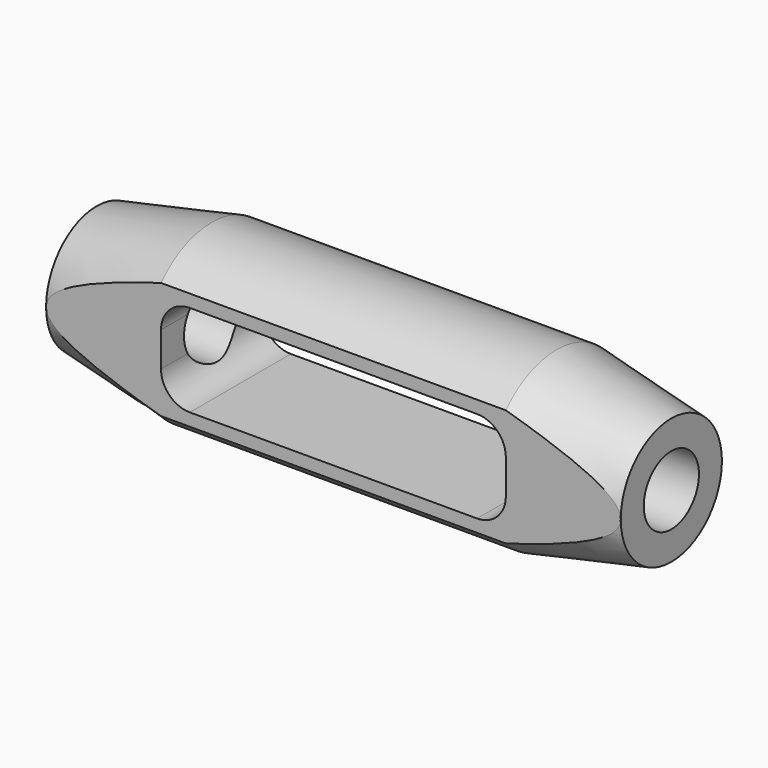
from build123d import *

# Parameters (mm, degrees)
SKETCH024_R      = 6
EXTRUDE011_DEPTH = 150
EXTRUDE010_DEPTH = 30
SKETCH022_W      = 15
SKETCH022_H      = 79.05159
SKETCH022_H_2    = 80
EXTRUDE009_DEPTH = 150


with BuildPart() as extrude011:
    # Sketch024 → Extrude011 (new body, symmetric)
    with BuildSketch(Plane.YZ):
        Circle(SKETCH024_R)
    extrude(amount=EXTRUDE011_DEPTH, both=True)


with BuildPart() as extrude022:
    # Sketch023 → Extrude010 (new body, symmetric)
    with BuildSketch(Plane.XZ):
        with BuildLine():
            Line((30, 3), (30, -3))
            ThreePointArc((25, -8), (28.535534, -6.535534), (30, -3))
            Line((25, -8), (-25, -8))
            ThreePointArc((-30, -3), (-28.535534, -6.535534), (-25, -8))
            Line((-30, -3), (-30, 3))
            ThreePointArc((-25, 8), (-28.535534, 6.535534), (-30, 3))
            Line((-25, 8), (25, 8))
            ThreePointArc((30, 3), (28.535534, 6.535534), (25, 8))
        make_face()
    extrude(amount=EXTRUDE010_DEPTH, both=True)


with BuildPart() as extrude021:
    # Sketch022 → Extrude009 (new body, symmetric)
    with BuildSketch(Plane.YZ):
        with Locations((-18.5, 0.159191)):
            Rectangle(SKETCH022_W, SKETCH022_H)
        with Locations((18.5, -0.315014)):
            Rectangle(SKETCH022_W, SKETCH022_H_2)
    extrude(amount=EXTRUDE009_DEPTH, both=True)


with BuildPart() as obj1:
    # Sketch021 → Revolve001 (revolve)
    with BuildSketch(Plane.XZ):
        Polygon((-50, 0), (-50, 11), (-30, 15), (30, 15), (50, 11), (50, 0), align=None)
    revolve(axis=Axis((-50, 0, 0), (-1, 0, 0)))

    # Cut009: cut Extrude021
    add(extrude021.part, mode=Mode.SUBTRACT)

    # Cut010: cut Extrude022
    add(extrude022.part, mode=Mode.SUBTRACT)

    # Cut011: cut Extrude011
    add(extrude011.part, mode=Mode.SUBTRACT)


with BuildPart() as obj1_1:
    # Cut011 placement: moved
    add(obj1.part.moved(Location((-180, 0, 0))))


solid = obj1_1.part
